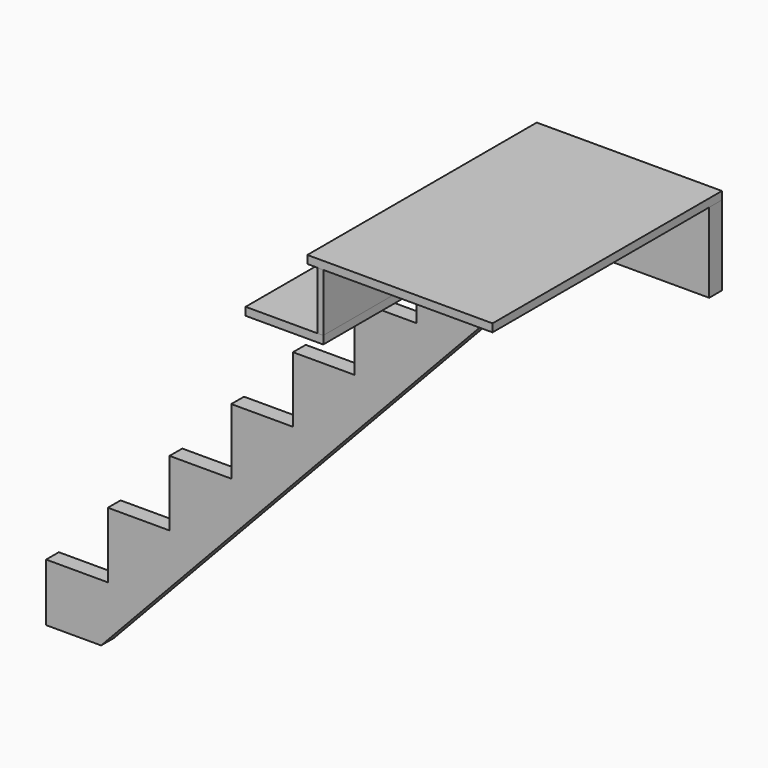
from build123d import *

# Parameters (mm, degrees)
F1_DEPTH = 50.8
F0_W     = 31.75
F0_H     = 25.4
F2_DEPTH = 914.4
F3_DEPTH = 914.4
F0_W_2   = 19.05
F0_H_2   = 184.15
F4_DEPTH = 914.4
F5_DEPTH = 50.8


with BuildPart() as f1:
    # F0 (on Front) → F1 (new body)
    with BuildSketch(Plane.XZ):
        Polygon((19.05, 184.15), (19.05, 0), (194.5557310738, 0), (1703.7390644071, 1606.55), (1942.3451250132, 1860.55), (1593.85, 1860.55), (1593.85, 1676.4), (1593.85, 1651), (1397, 1651), (1397, 1466.85), (1397, 1441.45), (1200.15, 1441.45), (1200.15, 1257.3), (1200.15, 1231.9), (1003.3, 1231.9), (1003.3, 1047.75), (1003.3, 1022.35), (806.45, 1022.35), (806.45, 838.2), (806.45, 812.8), (609.6, 812.8), (609.6, 628.65), (609.6, 603.25), (412.75, 603.25), (412.75, 419.1), (412.75, 393.7), (215.9, 393.7), (215.9, 209.55), (215.9, 184.15), align=None)
    extrude(amount=F1_DEPTH)


with BuildPart() as f2:
    # F0 (on Front) → F2 (new body)
    with BuildSketch(Plane.XZ):
        Polygon((1593.85, 1651), (1593.85, 1676.4), (1574.8, 1676.4), (1377.95, 1676.4), (1377.95, 1651), (1397, 1651), align=None)
        with Locations((1362.075, 1663.7)):
            Rectangle(F0_W, F0_H)
    extrude(amount=F2_DEPTH)


with BuildPart() as f3:
    # F0 (on Front) → F3 (new body)
    with BuildSketch(Plane.XZ):
        Polygon((1593.85, 1860.55), (1942.3451250132, 1860.55), (2133.6, 1860.55), (2133.6, 1885.95), (1574.8, 1885.95), (1574.8, 1860.55), align=None)
        with Locations((1558.925, 1873.25)):
            Rectangle(F0_W, F0_H)
    extrude(amount=F3_DEPTH)


with BuildPart() as f4:
    # F0 (on Front) → F4 (new body)
    with BuildSketch(Plane.XZ):
        with Locations((1584.325, 1768.475)):
            Rectangle(F0_W_2, F0_H_2)
    extrude(amount=F4_DEPTH)


with BuildPart() as f5:
    # F0 (on Front) → F5 (new body)
    with BuildSketch(Plane.XZ):
        Polygon((1942.3451250132, 1860.55), (1703.7390644071, 1606.55), (2133.6, 1606.55), (2133.6, 1860.55), align=None)
    extrude(amount=F5_DEPTH)


solid = Compound([f1.part, f2.part, f3.part, f4.part, f5.part])
